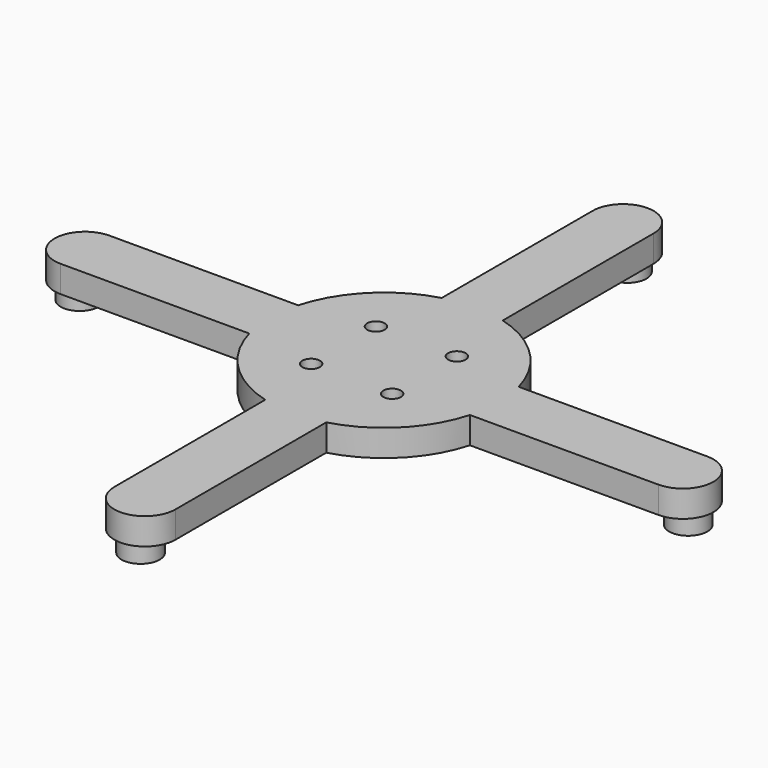
from build123d import *

# Parameters (mm, degrees)
PAD048_DEPTH    = 7
SKETCH145_R     = 5
PAD052_DEPTH    = 5
SKETCH146_R     = 2.3
POCKET042_DEPTH = 5.5


with BuildPart() as part:
    # Sketch134 → Pad048 (new body)
    with BuildSketch(Plane.XY):
        with BuildLine():
            Line((28.913665, 126), (78.342597, 126))
            ThreePointArc((78.342597, 110), (86.342597, 118), (78.342597, 126))
            Line((28.913665, 110), (78.342597, 110))
            ThreePointArc((8, 89.086335), (21.213203, 96.786797), (28.913665, 110))
            Line((8, 89.086335), (8, 39.657403))
            ThreePointArc((-8, 39.657403), (0, 31.657429), (8, 39.657403))
            Line((-8, 89.086335), (-8, 39.657403))
            ThreePointArc((-28.913665, 110), (-21.213203, 96.786797), (-8, 89.086335))
            Line((-28.913665, 110), (-78.342597, 110))
            ThreePointArc((-78.342597, 126), (-86.342605, 118), (-78.342597, 110))
            Line((-28.913665, 126), (-78.342597, 126))
            ThreePointArc((-8, 146.913665), (-21.213203, 139.213203), (-28.913665, 126))
            Line((-8, 146.913665), (-8, 196.342597))
            ThreePointArc((8, 196.342597), (0, 204.342636), (-8, 196.342597))
            Line((8, 196.342597), (8, 146.913665))
            ThreePointArc((28.913665, 126), (21.213203, 139.213203), (8, 146.913665))
        make_face()
    extrude(amount=PAD048_DEPTH)

    # Sketch145 → Pad052 (join)
    with BuildSketch(Plane(origin=(0, 0, 0), x_dir=(1, 0, 0), z_dir=(0, 0, -1))):
        with Locations((0, -38.25)):
            Circle(SKETCH145_R)
        with Locations((0, -197.75)):
            Circle(SKETCH145_R)
        with Locations((-79.75, -118)):
            Circle(SKETCH145_R)
        with Locations((79.75, -118)):
            Circle(SKETCH145_R)
    extrude(amount=PAD052_DEPTH)

    # Sketch146 (on Face5 of Pad052) → Pocket042 (cut)
    with BuildSketch(Plane.XY.offset(7)):
        with Locations((-10.606602, 128.606602)):
            Circle(SKETCH146_R)
        with Locations((10.606602, 128.606602)):
            Circle(SKETCH146_R)
        with Locations((10.606602, 107.393398)):
            Circle(SKETCH146_R)
        with Locations((-10.606602, 107.393398)):
            Circle(SKETCH146_R)
    extrude(amount=-POCKET042_DEPTH, mode=Mode.SUBTRACT)


with BuildPart() as part_1:
    # Body021 placement: moved
    add(part.part.moved(Location((0, 0, 35))))


solid = part_1.part
